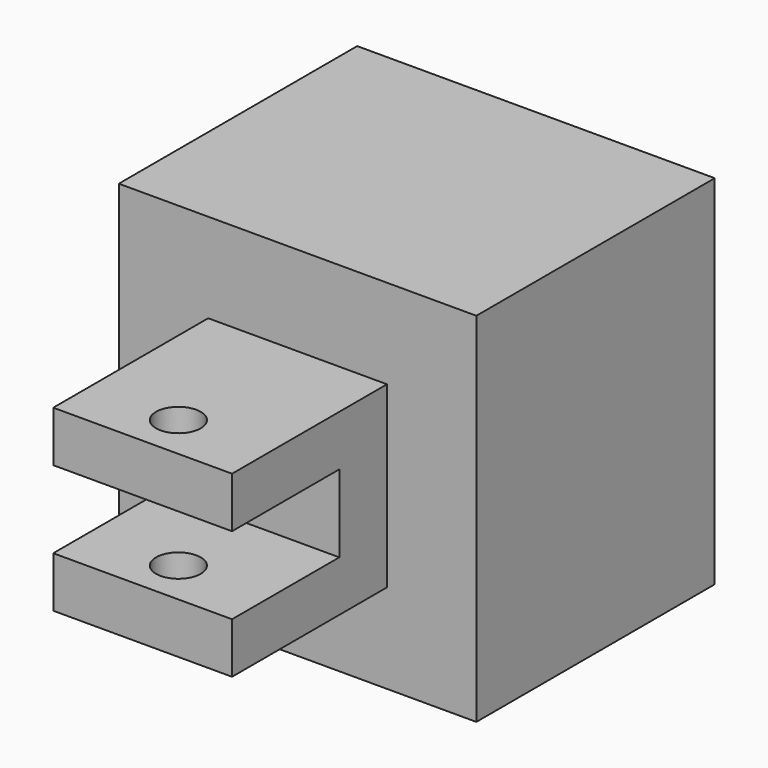
from build123d import *

# Parameters (mm, degrees)
F0_W     = 6
F0_H     = 6.5
F0_R     = 0.75
F1_DEPTH = 3
F2_W     = 6
F2_H     = 6
F3_DEPTH = 1.3
F4_W     = 12
F4_H     = 12
F5_DEPTH = 10
F6_R     = 4
F7_DEPTH = 7


with BuildPart() as f1:
    # F0 (on Top) → F1 (new body, symmetric)
    with BuildSketch(Plane.XY):
        with Locations((0, 1.75)):
            Rectangle(F0_W, F0_H)
        Circle(F0_R, mode=Mode.SUBTRACT)
    extrude(amount=F1_DEPTH, both=True)

    # F2 (on Top) → F3 (cut, symmetric)
    with BuildSketch(Plane.XY):
        Rectangle(F2_W, F2_H)
    extrude(amount=F3_DEPTH, both=True, mode=Mode.SUBTRACT)

    # F4 (on face) → F5 (join)
    with BuildSketch(Plane(origin=(0, 5, 0), x_dir=(-1, 0, 0), z_dir=(0, 1, 0))):
        Rectangle(F4_W, F4_H)
    extrude(amount=F5_DEPTH)

    # F6 (on face) → F7 (cut)
    with BuildSketch(Plane(origin=(0, 15, 0), x_dir=(-1, 0, 0), z_dir=(0, 1, 0))):
        Circle(F6_R)
    extrude(amount=-F7_DEPTH, mode=Mode.SUBTRACT)


solid = f1.part
